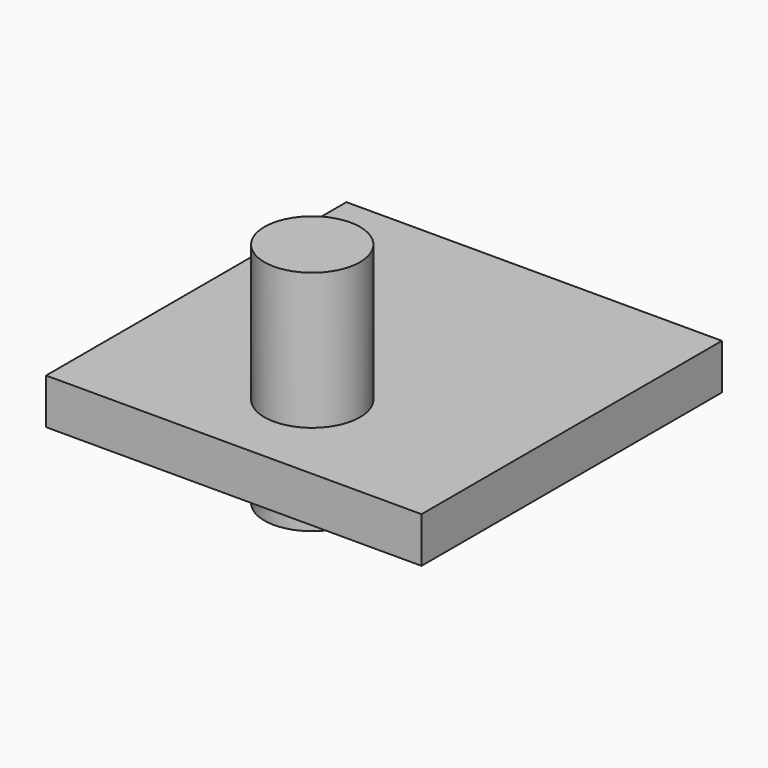
from build123d import *

# Parameters (mm, degrees)
F0_W     = 165
F0_H     = 165
F1_DEPTH = 20
F2_R     = 21
F3_DEPTH = 80
F4_DEPTH = 20


with BuildPart() as f1:
    # F0 (on Top) → F1 (new body)
    with BuildSketch(Plane.XY):
        Rectangle(F0_W, F0_H)
    extrude(amount=F1_DEPTH)

    # F2 (on Top) → F3 (join)
    with BuildSketch(Plane.XY):
        with Locations((0, -39.440217)):
            Circle(F2_R)
    extrude(amount=F3_DEPTH)

    # F2 (on Top) → F4 (join)
    with BuildSketch(Plane.XY):
        with Locations((0, -39.440217)):
            Circle(F2_R)
    extrude(amount=-F4_DEPTH)


solid = f1.part
